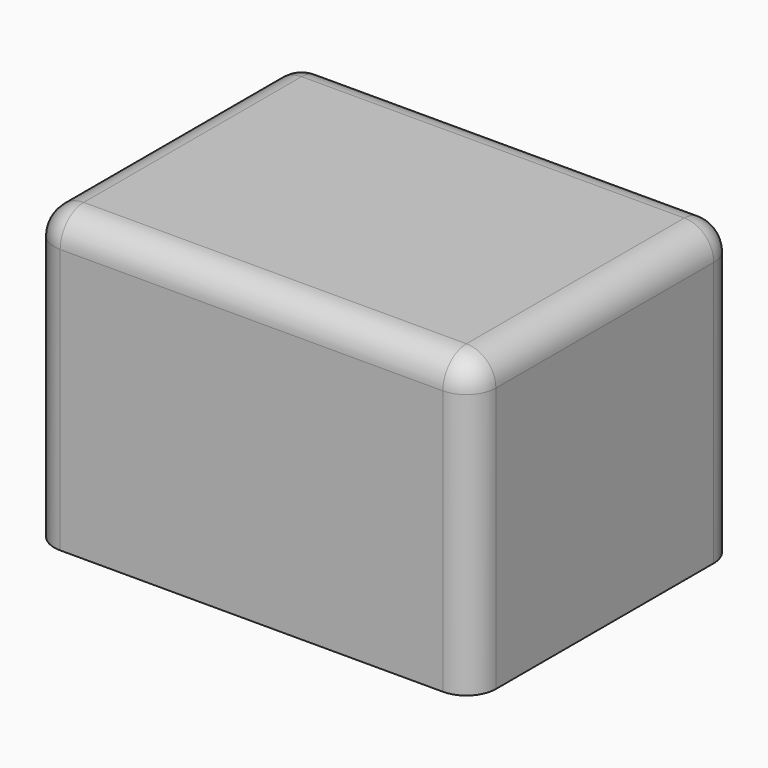
from build123d import *

# Parameters (mm, degrees)
F0_W     = 120
F0_H     = 80
F1_DEPTH = 45
F2_R     = 8
F3_T     = -3
F5_DEPTH = 1.5


with BuildPart() as f1:
    # F0 (on Front) → F1 (new body, symmetric)
    with BuildSketch(Plane.XZ):
        Rectangle(F0_W, F0_H)
    extrude(amount=F1_DEPTH, both=True)

    # F2
    f2_edges = [f1.edges().sort_by_distance(p)[0] for p in [
        (60, 0, 40),
        (60, -45, 0),
        (60, 45, 0),
        (-60, 45, 0),
        (0, 45, 40),
        (-60, 0, 40),
        (-60, -45, 0),
        (0, -45, 40),
    ]]
    fillet(f2_edges, radius=F2_R)

    # F3
    f3_openings = [f1.faces().sort_by_distance(p)[0] for p in [
        (0, 0, -40),
    ]]
    offset(amount=F3_T, openings=f3_openings)

    # F4 (on face) → F5 (cut)
    with BuildSketch(Plane(origin=(0, 0, -40), x_dir=(1, 0, 0), z_dir=(0, 0, -1))):
        with BuildLine():
            Line((52, 43.2), (-52, 43.2))
            ThreePointArc((-52, 43.2), (-56.3840620434, 41.3840620434), (-58.2, 37))
            Line((-58.2, 37), (-58.2, -37))
            ThreePointArc((-58.2, -37), (-56.3840620434, -41.3840620434), (-52, -43.2))
            Line((-52, -43.2), (52, -43.2))
            ThreePointArc((52, -43.2), (56.3840620434, -41.3840620434), (58.2, -37))
            Line((58.2, -37), (58.2, 37))
            ThreePointArc((58.2, 37), (56.3840620434, 41.3840620434), (52, 43.2))
        make_face()
    extrude(amount=-F5_DEPTH, mode=Mode.SUBTRACT)


solid = f1.part
